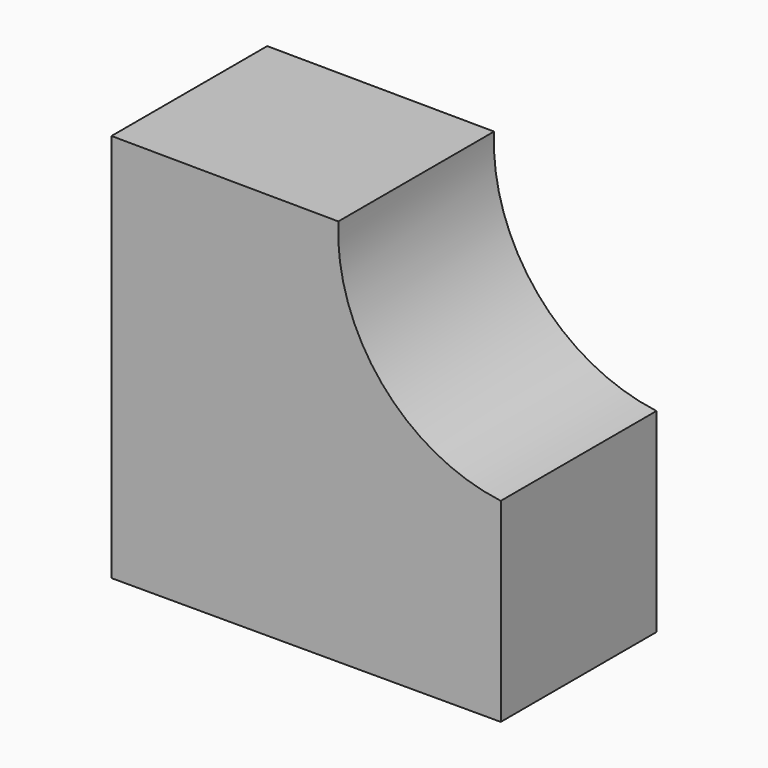
from build123d import *

# Parameters (mm, degrees)
F1_DEPTH = 25.4


with BuildPart() as f1:
    # F0 (on Front) → F1 (new body)
    with BuildSketch(Plane.XZ):
        with BuildLine():
            Line((-36.472339, 67.40699), (-66.070311, 67.597948))
            Line((-66.070311, 67.597948), (-66.070311, 16.80401))
            Line((-66.070311, 16.80401), (-15.276372, 16.80401))
            Line((-15.276372, 16.80401), (-15.276372, 42.200983))
            ThreePointArc((-15.276372, 42.200983), (-30.809465, 50.654006), (-36.472339, 67.40699))
        make_face()
        with BuildLine():
            Line((-36.472339, 67.40699), (-66.070311, 67.597948))
            Line((-66.070311, 67.597948), (-66.070311, 16.80401))
            Line((-66.070311, 16.80401), (-15.276372, 16.80401))
            Line((-15.276372, 16.80401), (-15.276372, 42.200983))
            ThreePointArc((-15.276372, 42.200983), (-30.809465, 50.654006), (-36.472339, 67.40699))
        make_face()
    extrude(amount=F1_DEPTH)


solid = f1.part
